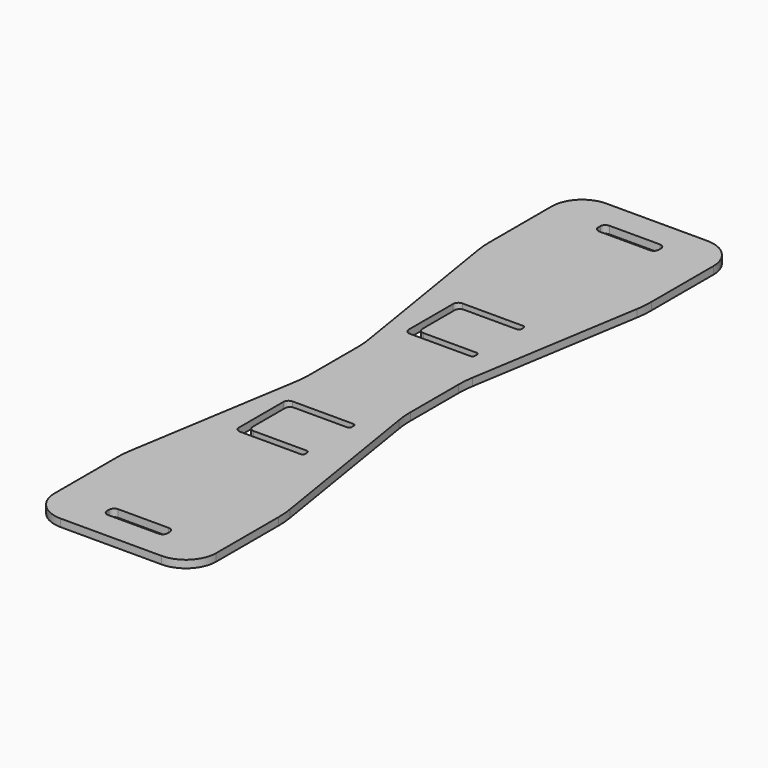
from build123d import *

# Parameters (mm, degrees)
F1_DEPTH = 1.5
F2_R     = 6
F3_R     = 20


with BuildPart() as f1:
    # F0 (on Top) → F1 (new body)
    with BuildSketch(Plane.XY):
        Polygon((16.235917, 84.275943), (-15.764083, 84.275943), (-15.764083, 61.275943), (-9.764083, 24.275943), (-9.764083, 9.275943), (-15.764083, -27.724057), (-15.764083, -50.724057), (16.235917, -50.724057), (16.235917, -27.724057), (10.235917, 9.275943), (10.235917, 24.275943), (16.235917, 61.275943), align=None)
        with BuildLine():
            ThreePointArc((-5.764083, -43.724057), (-5.471189, -43.01695), (-4.764083, -42.724057))
            Line((-4.764083, -42.724057), (5.235917, -42.724057))
            ThreePointArc((5.235917, -42.724057), (5.943024, -43.01695), (6.235917, -43.724057))
            Line((6.235917, -43.724057), (6.235917, -44.224057))
            ThreePointArc((6.235917, -44.224057), (5.943024, -44.931164), (5.235917, -45.224057))
            Line((5.235917, -45.224057), (-4.764083, -45.224057))
            ThreePointArc((-4.764083, -45.224057), (-5.471189, -44.931164), (-5.764083, -44.224057))
            Line((-5.764083, -44.224057), (-5.764083, -43.724057))
        make_face(mode=Mode.SUBTRACT)
        with BuildLine():
            Line((5.735917, 0.775943), (-4.764083, 0.775943))
            ThreePointArc((-4.764083, 0.775943), (-5.471189, 0.48305), (-5.764083, -0.224057))
            Line((-5.764083, -0.224057), (-5.764083, -8.224057))
            ThreePointArc((-5.764083, -8.224057), (-5.471189, -8.931164), (-4.764083, -9.224057))
            Line((-4.764083, -9.224057), (5.735917, -9.224057))
            ThreePointArc((5.735917, -9.224057), (6.089471, -9.370504), (6.235917, -9.724057))
            Line((6.235917, -9.724057), (6.235917, -10.224057))
            ThreePointArc((6.235917, -10.224057), (6.089471, -10.57761), (5.735917, -10.724057))
            Line((5.735917, -10.724057), (-6.264083, -10.724057))
            ThreePointArc((-6.264083, -10.724057), (-6.971189, -10.431164), (-7.264083, -9.724057))
            Line((-7.264083, -9.724057), (-7.264083, 1.275943))
            ThreePointArc((-7.264083, 1.275943), (-6.971189, 1.98305), (-6.264083, 2.275943))
            Line((-6.264083, 2.275943), (5.735917, 2.275943))
            ThreePointArc((5.735917, 2.275943), (6.089471, 2.129496), (6.235917, 1.775943))
            Line((6.235917, 1.775943), (6.235917, 1.275943))
            ThreePointArc((6.235917, 1.275943), (6.089471, 0.92239), (5.735917, 0.775943))
        make_face(mode=Mode.SUBTRACT)
        with BuildLine():
            Line((5.735917, 42.775943), (-4.764083, 42.775943))
            ThreePointArc((-4.764083, 42.775943), (-5.471189, 42.48305), (-5.764083, 41.775943))
            Line((-5.764083, 41.775943), (-5.764083, 33.775943))
            ThreePointArc((-5.764083, 33.775943), (-5.471189, 33.068836), (-4.764083, 32.775943))
            Line((-4.764083, 32.775943), (5.735917, 32.775943))
            ThreePointArc((5.735917, 32.775943), (6.089471, 32.629496), (6.235917, 32.275943))
            Line((6.235917, 32.275943), (6.235917, 31.775943))
            ThreePointArc((6.235917, 31.775943), (6.089471, 31.42239), (5.735917, 31.275943))
            Line((5.735917, 31.275943), (-6.264083, 31.275943))
            ThreePointArc((-6.264083, 31.275943), (-6.971189, 31.568836), (-7.264083, 32.275943))
            Line((-7.264083, 32.275943), (-7.264083, 43.275943))
            ThreePointArc((-7.264083, 43.275943), (-6.971189, 43.98305), (-6.264083, 44.275943))
            Line((-6.264083, 44.275943), (5.735917, 44.275943))
            ThreePointArc((5.735917, 44.275943), (6.089471, 44.129496), (6.235917, 43.775943))
            Line((6.235917, 43.775943), (6.235917, 43.275943))
            ThreePointArc((6.235917, 43.275943), (6.089471, 42.92239), (5.735917, 42.775943))
        make_face(mode=Mode.SUBTRACT)
        with BuildLine():
            Line((5.235917, 76.275943), (-4.764083, 76.275943))
            ThreePointArc((-4.764083, 76.275943), (-5.471189, 76.568836), (-5.764083, 77.275943))
            Line((-5.764083, 77.275943), (-5.764083, 77.775943))
            ThreePointArc((-5.764083, 77.775943), (-5.471189, 78.48305), (-4.764083, 78.775943))
            Line((-4.764083, 78.775943), (5.235917, 78.775943))
            ThreePointArc((5.235917, 78.775943), (5.943024, 78.48305), (6.235917, 77.775943))
            Line((6.235917, 77.775943), (6.235917, 77.275943))
            ThreePointArc((6.235917, 77.275943), (5.943024, 76.568836), (5.235917, 76.275943))
        make_face(mode=Mode.SUBTRACT)
    extrude(amount=F1_DEPTH)

    # F2
    f2_edges = [f1.edges().sort_by_distance(p)[0] for p in [
        (16.235917, 84.275943, 0.75),
        (-15.764083, 84.275943, 0.75),
        (-15.764083, -50.724057, 0.75),
        (16.235917, -50.724057, 0.75),
    ]]
    fillet(f2_edges, radius=F2_R)

    # F3
    f3_edges = [f1.edges().sort_by_distance(p)[0] for p in [
        (16.235917, 61.275943, 0.75),
        (-15.764083, 61.275943, 0.75),
        (16.235917, -27.724057, 0.75),
        (-15.764083, -27.724057, 0.75),
        (-9.764083, 9.275943, 0.75),
        (10.235917, 9.275943, 0.75),
        (10.235917, 24.275943, 0.75),
        (-9.764083, 24.275943, 0.75),
    ]]
    fillet(f3_edges, radius=F3_R)


solid = f1.part
